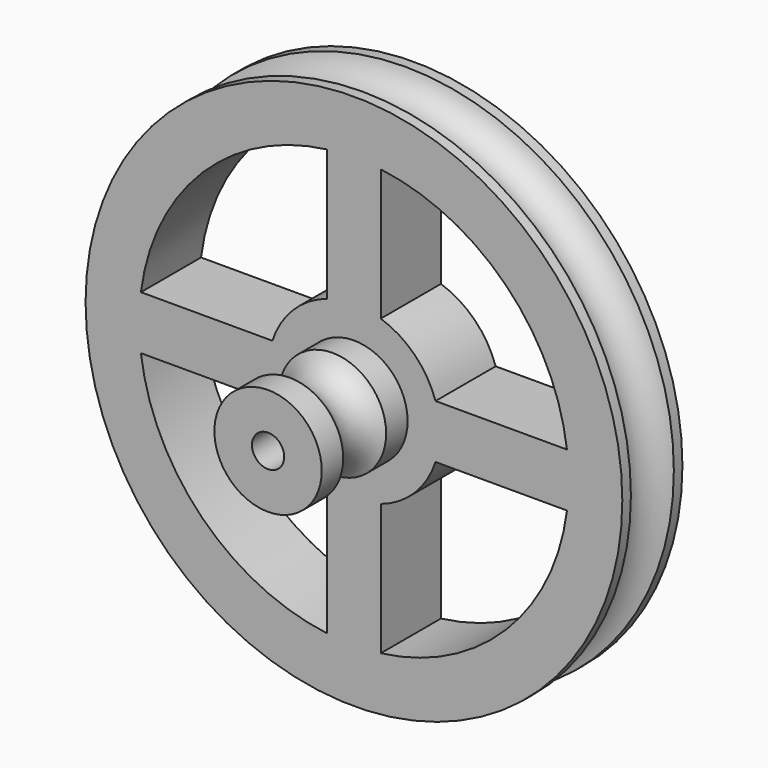
from build123d import *

# Parameters (mm, degrees)
F0_R      = 25
F1_DEPTH  = 7
F5_R      = 5
F6_DEPTH  = 10
F10_R     = 1.5
F11_DEPTH = 17.001
F13_DEPTH = 7.001


with BuildPart() as f1:
    # F0 (on Front) → F1 (new body)
    with BuildSketch(Plane.XZ):
        Circle(F0_R)
    extrude(amount=F1_DEPTH)

    # F2 (on Right) → F4 (revolve, cut)
    with BuildSketch(Plane.YZ):
        with BuildLine():
            Line((-1, 25), (-6, 25))
            ThreePointArc((-6, 25), (-3.5, 23), (-1, 25))
        make_face()
    revolve(axis=Axis((0, -8.172696, 0), (0, -1, 0)), mode=Mode.SUBTRACT)

    # F5 (on face) → F6 (join)
    with BuildSketch(Plane.XZ.offset(7)):
        Circle(F5_R)
    extrude(amount=F6_DEPTH)

    # F8 (on Right) → F9 (revolve, cut)
    with BuildSketch(Plane.YZ):
        with BuildLine():
            ThreePointArc((-14.5, 5), (-12, 3.5), (-9.5, 5))
            Line((-9.5, 5), (-14.5, 5))
        make_face()
    revolve(axis=Axis((0, -11.272511, 0), (0, 1, 0)), mode=Mode.SUBTRACT)

    # F10 (on face) → F11 (cut, through all)
    with BuildSketch(Plane.XZ.offset(17)):
        Circle(F10_R)
    extrude(amount=-F11_DEPTH, mode=Mode.SUBTRACT)

    # F12 (on face) → F13 (cut, through all)
    with BuildSketch(Plane.XZ.offset(7)):
        with BuildLine():
            Line((-2.5, 7.599342), (-2.5, 19.843135))
            ThreePointArc((-2.5, 19.843135), (-14.142136, 14.142136), (-19.843135, 2.5))
            Line((-19.843135, 2.5), (-7.599342, 2.5))
            ThreePointArc((-7.599342, 2.5), (-5.656854, 5.656854), (-2.5, 7.599342))
        make_face()
        with BuildLine():
            Line((7.599342, 2.5), (19.843135, 2.5))
            ThreePointArc((19.843135, 2.5), (14.142136, 14.142136), (2.5, 19.843135))
            Line((2.5, 19.843135), (2.5, 7.599342))
            ThreePointArc((2.5, 7.599342), (5.656854, 5.656854), (7.599342, 2.5))
        make_face()
        with BuildLine():
            ThreePointArc((2.5, -19.843135), (14.142136, -14.142136), (19.843135, -2.5))
            Line((19.843135, -2.5), (7.599342, -2.5))
            ThreePointArc((7.599342, -2.5), (5.656854, -5.656854), (2.5, -7.599342))
            Line((2.5, -7.599342), (2.5, -19.843135))
        make_face()
        with BuildLine():
            Line((-2.5, -19.843135), (-2.5, -7.599342))
            ThreePointArc((-2.5, -7.599342), (-5.656854, -5.656854), (-7.599342, -2.5))
            Line((-7.599342, -2.5), (-19.843135, -2.5))
            ThreePointArc((-19.843135, -2.5), (-14.142136, -14.142136), (-2.5, -19.843135))
        make_face()
    extrude(amount=-F13_DEPTH, mode=Mode.SUBTRACT)


solid = f1.part
